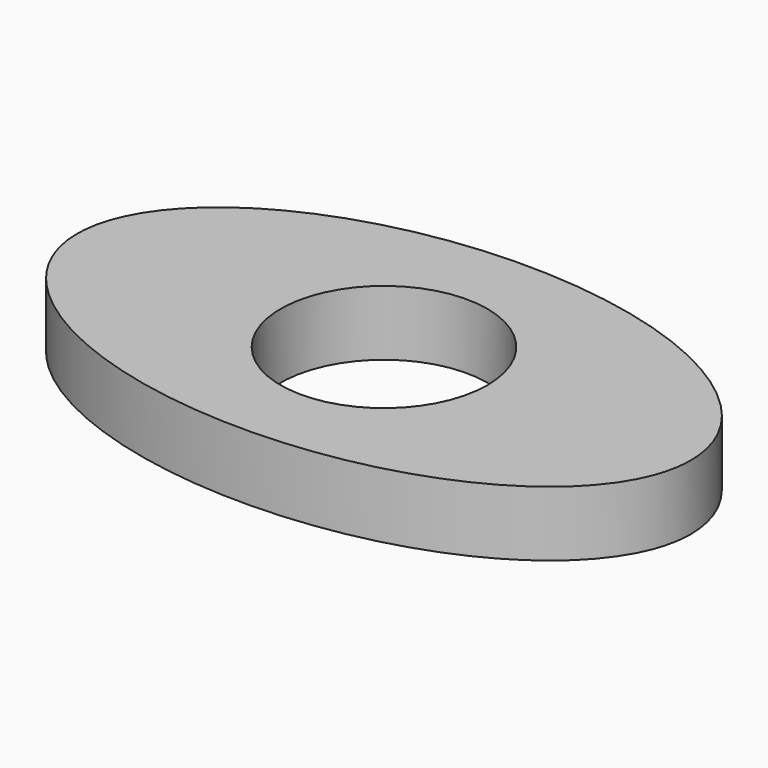
from build123d import *

# Parameters (mm, degrees)
F0_R     = 11.125
F1_DEPTH = 7


with BuildPart() as f1:
    # F0 (on Top) → F1 (new body)
    with BuildSketch(Plane.XY):
        with BuildLine():
            add(Edge.make_bspline(
                [(33.02, 0), (33.02, 32.995568), (-16.51, 16.497784), (-66.04, 0), (-16.51, -16.497784), (33.02, -32.995568), (33.02, 0)],
                knots=[0, 0, 0, 2.094395, 2.094395, 4.18879, 4.18879, 6.283185, 6.283185, 6.283185], degree=2, weights=[1, 0.5, 1, 0.5, 1, 0.5, 1]))
        make_face()
        Circle(F0_R, mode=Mode.SUBTRACT)
    extrude(amount=F1_DEPTH)


solid = f1.part
